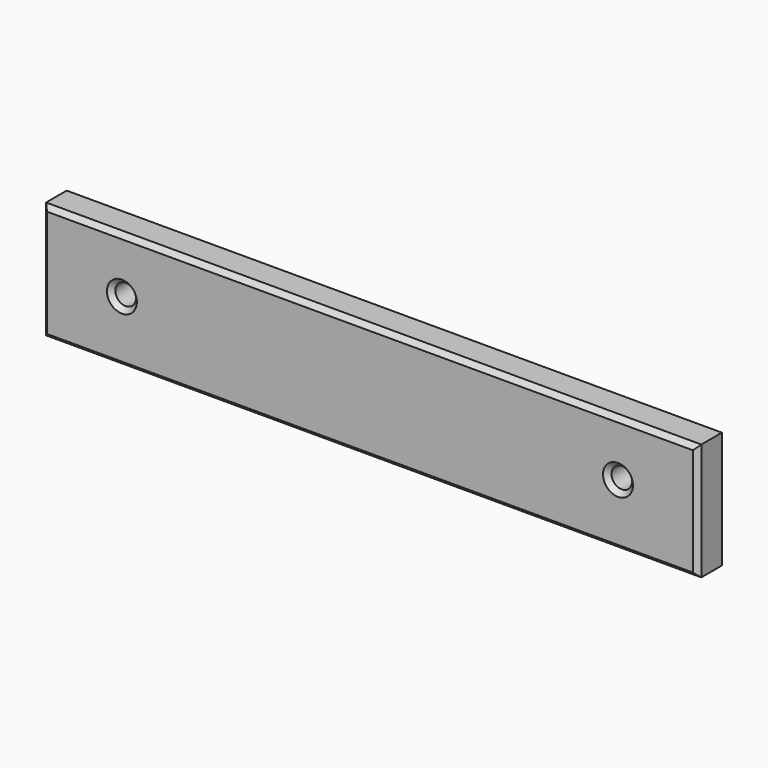
from build123d import *

# Parameters (mm, degrees)
SKETCH059_W             = 140
SKETCH059_H             = 25
SKETCH059_R             = 2.2
PAD026_DEPTH            = 6.5
SKETCH060_W             = 12.4
SKETCH060_H             = 4
PAD027_DEPTH            = 21.5
SKETCH061_R             = 2.2
POCKET032_DEPTH         = 10.609
CHAMFER024_SIZE         = 1
BODY013_ROLL_ANGLE      = 90
BODY013_PLACEMENT_ANGLE = 180


with BuildPart() as part:
    # Sketch059 → Pad026 (new body)
    with BuildSketch(Plane.XY):
        Rectangle(SKETCH059_W, SKETCH059_H)
        with Locations((-53, 0.726)):
            Circle(SKETCH059_R, mode=Mode.SUBTRACT)
        with Locations((53, 0.726)):
            Circle(SKETCH059_R, mode=Mode.SUBTRACT)
    extrude(amount=PAD026_DEPTH)

    # Sketch060 (on Face8 of Pad026) → Pad027 (join)
    with BuildSketch(Plane.XY.offset(6.5)):
        with Locations((-38.154, -3.892)):
            Rectangle(SKETCH060_W, SKETCH060_H)
        with Locations((38.154, -3.892)):
            Rectangle(SKETCH060_W, SKETCH060_H)
    extrude(amount=PAD027_DEPTH)

    # Sketch061 (on Face12 of Pad027) → Pocket032 (cut, through all)
    with BuildSketch(Plane(origin=(0, -1.892, 0), x_dir=(-1, 0, 0), z_dir=(0, 1, 0))):
        with Locations((-38.154, 21.8)):
            Circle(SKETCH061_R)
        with Locations((38.154, 21.8)):
            Circle(SKETCH061_R)
    extrude(amount=-POCKET032_DEPTH, mode=Mode.SUBTRACT)

    # Chamfer024
    chamfer024_edges = [part.edges().sort_by_distance(p)[0] for p in [
        (0, 12.5, 0),
        (70, 0, 0),
        (0, -12.5, 0),
        (-70, 0, 0),
        (50.8, 0.726, 0),
        (-55.2, 0.726, 0),
    ]]
    chamfer(chamfer024_edges, length=CHAMFER024_SIZE)


with BuildPart() as part_1:
    # Body013 roll: moved
    add(part.part.rotate(Axis((0, 0, 0), (1, 0, 0)), BODY013_ROLL_ANGLE))


with BuildPart() as part_2:
    # Body013 placement: moved
    add(part_1.part.moved(Location((0, -145.15, 0))).rotate(Axis((0, -145.15, 0), (0, 0, 1)), BODY013_PLACEMENT_ANGLE))


solid = part_2.part
